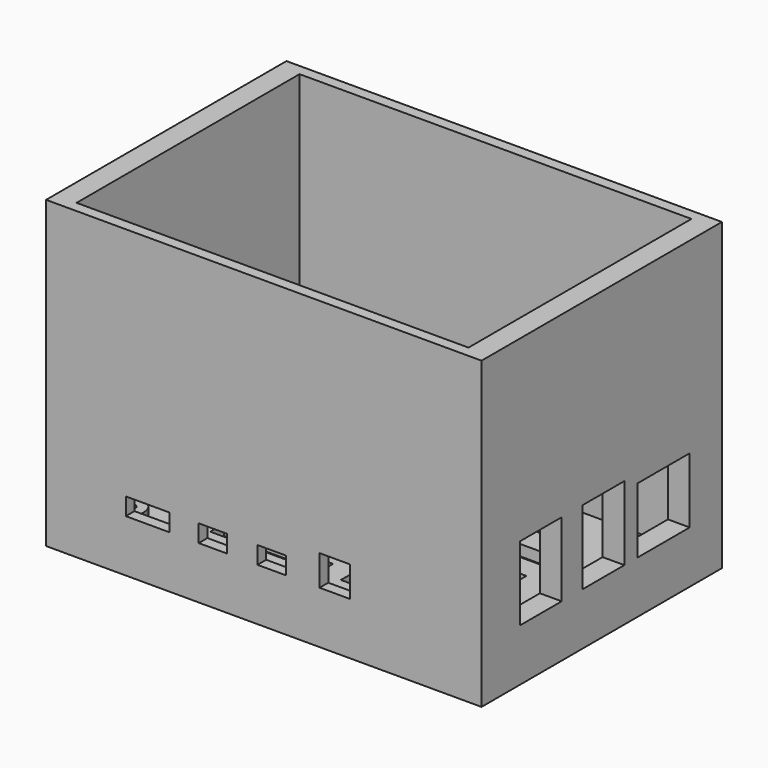
from build123d import *

# Parameters (mm, degrees)
SKETCH_W        = 100
SKETCH_H        = 69
PAD_DEPTH       = 70
SKETCH001_W     = 90
SKETCH001_H     = 64
POCKET_DEPTH    = 67.5
SKETCH002_R     = 3.5
SKETCH002_R_2   = 1.37
PAD001_DEPTH    = 5
SKETCH003_W     = 10
SKETCH003_H     = 4
SKETCH003_W_2   = 6.5
SKETCH003_W_3   = 7
SKETCH003_H_2   = 7
POCKET001_DEPTH = 5
SKETCH004_W     = 12
SKETCH004_H     = 17
SKETCH004_W_2   = 15
SKETCH004_H_2   = 15
POCKET002_DEPTH = 5
SKETCH005_W     = 25
SKETCH005_H     = 4
POCKET003_DEPTH = 5


with BuildPart() as part:
    # Sketch → Pad (new body)
    with BuildSketch(Plane.XY):
        Rectangle(SKETCH_W, SKETCH_H)
    extrude(amount=PAD_DEPTH)

    # Sketch001 (on Face6 of Pad) → Pocket (cut)
    with BuildSketch(Plane.XY.offset(70)):
        Rectangle(SKETCH001_W, SKETCH001_H)
    extrude(amount=-POCKET_DEPTH, mode=Mode.SUBTRACT)

    # Sketch002 (on Face11 of Pocket) → Pad001 (join)
    with BuildSketch(Plane.XY.offset(2.5)):
        with Locations((-39, 24.5)):
            Circle(SKETCH002_R)
        with Locations((-39, 24.5)):
            Circle(SKETCH002_R_2, mode=Mode.SUBTRACT)
        with Locations((19, 24.5)):
            Circle(SKETCH002_R)
        with Locations((19, 24.5)):
            Circle(SKETCH002_R_2, mode=Mode.SUBTRACT)
        with Locations((-39, -24.5)):
            Circle(SKETCH002_R)
        with Locations((-39, -24.5)):
            Circle(SKETCH002_R_2, mode=Mode.SUBTRACT)
        with Locations((19, -24.5)):
            Circle(SKETCH002_R)
        with Locations((19, -24.5)):
            Circle(SKETCH002_R_2, mode=Mode.SUBTRACT)
    extrude(amount=PAD001_DEPTH)

    # Sketch003 (on Face6 of Pad001) → Pocket001 (cut)
    with BuildSketch(Plane.XZ.offset(34.5)):
        with Locations((-26.7, 14)):
            Rectangle(SKETCH003_W, SKETCH003_H)
        with Locations((-11.7, 14)):
            Rectangle(SKETCH003_W_2, SKETCH003_H)
        with Locations((1.8, 14)):
            Rectangle(SKETCH003_W_2, SKETCH003_H)
        with Locations((16.3, 15.5)):
            Rectangle(SKETCH003_W_3, SKETCH003_H_2)
    extrude(amount=-POCKET001_DEPTH, mode=Mode.SUBTRACT)

    # Sketch004 (on Face3 of Pocket001) → Pocket002 (cut)
    with BuildSketch(Plane.YZ.offset(50)):
        with Locations((-17.5, 20.5)):
            Rectangle(SKETCH004_W, SKETCH004_H)
        with Locations((0.5, 20.5)):
            Rectangle(SKETCH004_W, SKETCH004_H)
        with Locations((17.75, 19.5)):
            Rectangle(SKETCH004_W_2, SKETCH004_H_2)
    extrude(amount=-POCKET002_DEPTH, mode=Mode.SUBTRACT)

    # Sketch005 (on Face39 of Pocket002) → Pocket003 (cut)
    with BuildSketch(Plane.XY.offset(2.5)):
        with Locations((-15, 13.5)):
            Rectangle(SKETCH005_W, SKETCH005_H)
        with Locations((15, 13.5)):
            Rectangle(SKETCH005_W, SKETCH005_H)
        with Locations((-15, 4.5)):
            Rectangle(SKETCH005_W, SKETCH005_H)
        with Locations((15, 4.5)):
            Rectangle(SKETCH005_W, SKETCH005_H)
        with Locations((-15, -4.5)):
            Rectangle(SKETCH005_W, SKETCH005_H)
        with Locations((15, -4.5)):
            Rectangle(SKETCH005_W, SKETCH005_H)
        with Locations((-15, -13.5)):
            Rectangle(SKETCH005_W, SKETCH005_H)
        with Locations((15, -13.5)):
            Rectangle(SKETCH005_W, SKETCH005_H)
    extrude(amount=-POCKET003_DEPTH, mode=Mode.SUBTRACT)


solid = part.part
